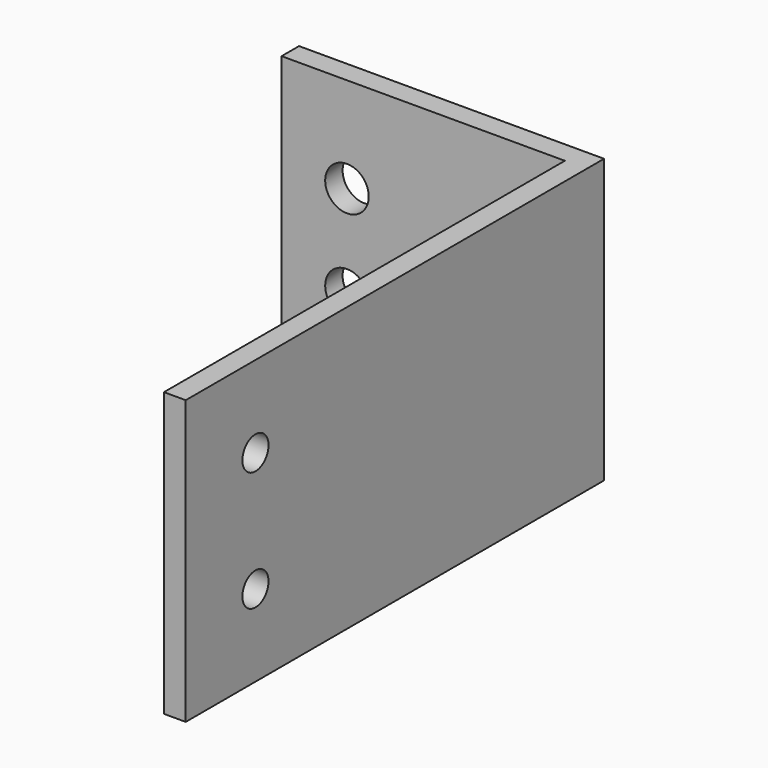
from build123d import *

# Parameters (mm, degrees)
F1_DEPTH = 41.275
F2_R     = 4.7625
F3_DEPTH = 88.901
F4_R     = 6.35
F4_R_2   = 4.7625
F5_DEPTH = 152.401


with BuildPart() as f1:
    # F0 (on Top) → F1 (new body, symmetric)
    with BuildSketch(Plane.XY):
        Polygon((-82.55, 0), (0, 0), (0, -146.05), (6.35, -146.05), (6.35, 6.35), (-82.55, 6.35), align=None)
    extrude(amount=F1_DEPTH, both=True)

    # F2 (on face) → F3 (cut, through all)
    with BuildSketch(Plane.YZ.offset(6.35)):
        with Locations((-120.65, 17.4625)):
            Circle(F2_R)
        with Locations((-120.65, -17.4625)):
            Circle(F2_R)
    extrude(amount=-F3_DEPTH, mode=Mode.SUBTRACT)

    # F4 (on face) → F5 (cut, through all)
    with BuildSketch(Plane(origin=(0, 6.35, 0), x_dir=(-1, 0, 0), z_dir=(0, 1, 0))):
        with Locations((63.5, 13.4874)):
            Circle(F4_R)
        with Locations((63.5, -13.4874)):
            Circle(F4_R)
        with Locations((19.05, 0)):
            Circle(F4_R_2)
    extrude(amount=-F5_DEPTH, mode=Mode.SUBTRACT)


solid = f1.part
